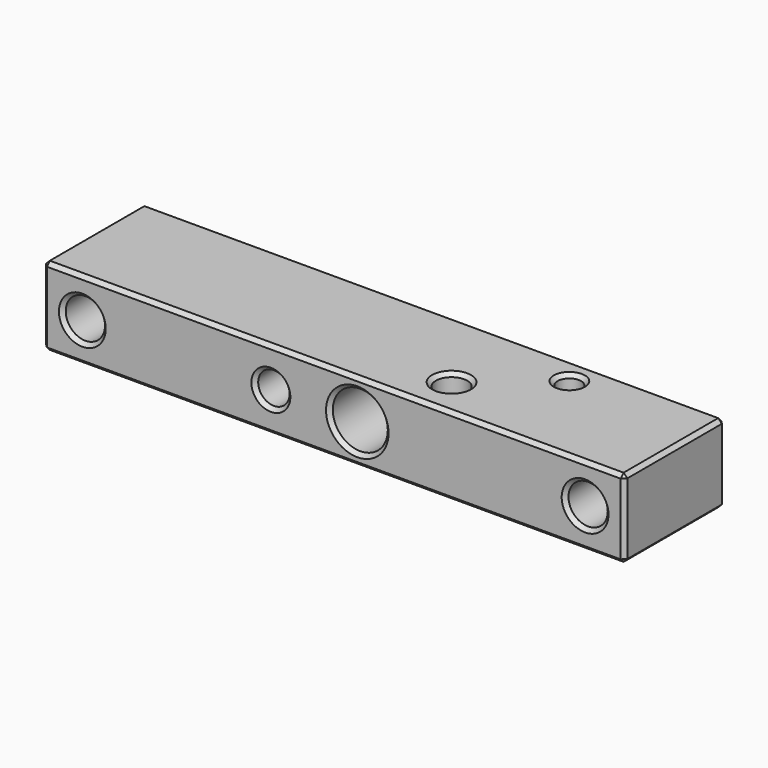
from build123d import *

# Parameters (mm, degrees)
F0_W     = 117.475
F0_H     = 15.875
F1_DEPTH = 25.4
F2_R     = 3.96875
F2_R_2   = 3.175
F2_R_3   = 5.55625
F3_DEPTH = 127
F4_R     = 3.175
F4_R_2   = 2.38125
F5_DEPTH = 25.4
F6_SIZE2 = 0.762
F6_SIZE  = 0.762


with BuildPart() as f1:
    # F0 (on Front) → F1 (new body)
    with BuildSketch(Plane.XZ):
        with Locations((-40.3991378844, 29.3130254295)):
            Rectangle(F0_W, F0_H)
    extrude(amount=F1_DEPTH)

    # F2 (on face) → F3 (cut)
    with BuildSketch(Plane.XZ.offset(25.4)):
        with Locations((-91.1991378844, 29.3130254295)):
            Circle(F2_R)
        with Locations((-53.0991378844, 29.3130254295)):
            Circle(F2_R_2)
        with Locations((-35.6366378844, 29.3130254295)):
            Circle(F2_R_3)
        with Locations((10.4008621156, 29.3130254295)):
            Circle(F2_R)
    extrude(amount=-F3_DEPTH, mode=Mode.SUBTRACT)

    # F4 (on face) → F5 (cut)
    with BuildSketch(Plane(origin=(0, 0, 21.3755254295), x_dir=(1, 0, 0), z_dir=(0, 0, -1))):
        with Locations((-22.9366378844, 17.4625)):
            Circle(F4_R)
        with Locations((-8.6491378844, 5.5626)):
            Circle(F4_R_2)
    extrude(amount=-F5_DEPTH, mode=Mode.SUBTRACT)

    # F6
    f6_edges = [f1.edges().sort_by_distance(p)[0] for p in [
        (-40.399138, -25.4, 21.375525),
        (-40.399138, -25.4, 37.250525),
        (18.338362, -25.4, 29.313025),
        (6.432112, -25.4, 29.313025),
        (-41.192888, -25.4, 29.313025),
        (-56.274138, -25.4, 29.313025),
        (-99.136638, -25.4, 29.313025),
        (-95.167888, -25.4, 29.313025),
        (-99.136638, -12.7, 21.375525),
        (-40.399138, 0, 21.375525),
        (-26.111638, -17.4625, 21.375525),
        (-11.030388, -5.5626, 21.375525),
        (18.338362, -12.7, 21.375525),
        (18.338362, -12.7, 37.250525),
        (18.338362, 0, 29.313025),
        (-26.111638, -17.4625, 37.250525),
        (-11.030388, -5.5626, 37.250525),
        (-40.399138, 0, 37.250525),
        (-99.136638, -12.7, 37.250525),
        (-41.192888, 0, 29.313025),
        (-56.274138, 0, 29.313025),
        (6.432112, 0, 29.313025),
        (-95.167888, 0, 29.313025),
    ]]
    chamfer(f6_edges, length=F6_SIZE, length2=F6_SIZE2)


solid = f1.part
